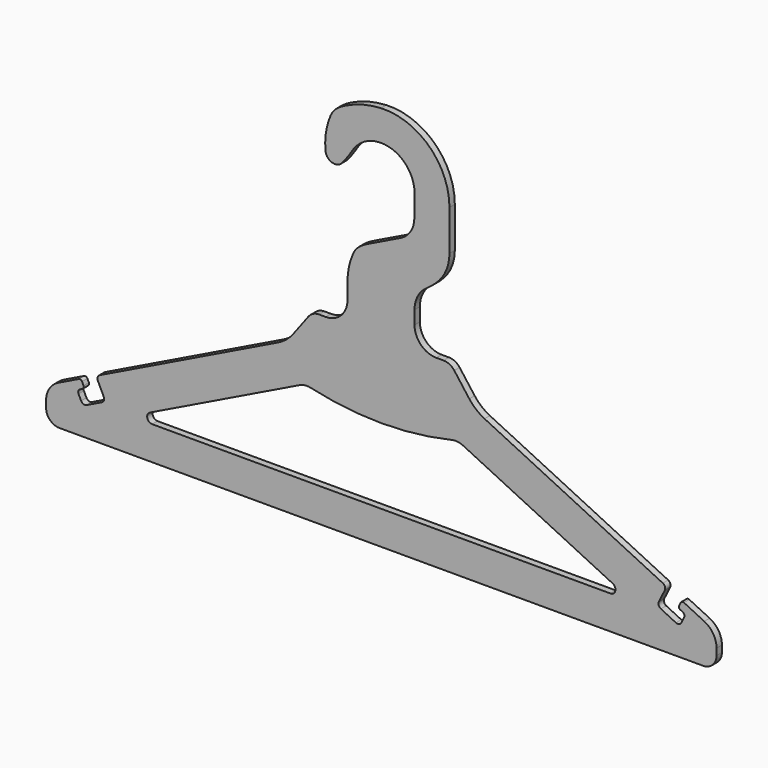
from build123d import *

# Parameters (mm, degrees)
F4_DEPTH = 4
F5_DEPTH = 25
F6_DEPTH = 4


with BuildPart() as f4:
    # F1 (on Front) → F4 (new body)
    with BuildSketch(Plane.XZ):
        with BuildLine():
            Line((-192, 0), (0, 0))
            Line((0, 0), (192, 0))
            ThreePointArc((192, 0), (197.656854, 2.343146), (200, 8))
            Line((200, 8), (200, 11.867938))
            ThreePointArc((200, 11.867938), (198.021286, 18.762229), (192.6875, 23.557777))
            Line((192.6875, 23.557777), (180.548051, 29.464027))
            ThreePointArc((180.548051, 29.464027), (179.402075, 29.533004), (178.542974, 28.77145))
            Line((178.542974, 28.77145), (177.667974, 26.973013))
            ThreePointArc((177.667974, 26.973013), (177.598997, 25.827036), (178.360551, 24.967935))
            Line((178.360551, 24.967935), (179.709379, 24.311685))
            ThreePointArc((179.709379, 24.311685), (180.724784, 23.166217), (180.632816, 21.638248))
            Line((180.632816, 21.638248), (179.101566, 18.490984))
            ThreePointArc((179.101566, 18.490984), (177.66973, 17.221727), (175.75977, 17.336688))
            Line((175.75977, 17.336688), (166.767586, 21.711688))
            ThreePointArc((166.767586, 21.711688), (165.498329, 23.143523), (165.61329, 25.053484))
            Line((165.61329, 25.053484), (169.11329, 32.247231))
            ThreePointArc((169.11329, 32.247231), (169.22825, 34.157192), (167.958994, 35.589027))
            Line((167.958994, 35.589027), (61.560664, 87.355393))
            ThreePointArc((61.560664, 87.355393), (56.583657, 90.555592), (52.498164, 94.835853))
            Line((52.498164, 94.835853), (43.525054, 106.8))
            ThreePointArc((43.525054, 106.8), (40.702763, 109.155418), (37.125054, 110))
            Line((37.125054, 110), (0, 110))
            Line((0, 110), (-37.125054, 110))
            ThreePointArc((-37.125054, 110), (-40.702763, 109.155418), (-43.525054, 106.8))
            Line((-43.525054, 106.8), (-52.498164, 94.835853))
            ThreePointArc((-52.498164, 94.835853), (-56.583657, 90.555592), (-61.560664, 87.355393))
            Line((-61.560664, 87.355393), (-167.958994, 35.589027))
            ThreePointArc((-167.958994, 35.589027), (-169.22825, 34.157192), (-169.11329, 32.247231))
            Line((-169.11329, 32.247231), (-165.61329, 25.053484))
            ThreePointArc((-165.61329, 25.053484), (-165.498329, 23.143523), (-166.767586, 21.711688))
            Line((-166.767586, 21.711688), (-175.75977, 17.336688))
            ThreePointArc((-175.75977, 17.336688), (-177.66973, 17.221727), (-179.101566, 18.490984))
            Line((-179.101566, 18.490984), (-180.632816, 21.638248))
            ThreePointArc((-180.632816, 21.638248), (-180.724784, 23.166217), (-179.709379, 24.311685))
            Line((-179.709379, 24.311685), (-178.360551, 24.967935))
            ThreePointArc((-178.360551, 24.967935), (-177.598997, 25.827036), (-177.667974, 26.973013))
            Line((-177.667974, 26.973013), (-178.542974, 28.77145))
            ThreePointArc((-178.542974, 28.77145), (-179.402075, 29.533004), (-180.548051, 29.464027))
            Line((-180.548051, 29.464027), (-192.6875, 23.557777))
            ThreePointArc((-192.6875, 23.557777), (-198.021286, 18.762229), (-200, 11.867938))
            Line((-200, 11.867938), (-200, 8))
            ThreePointArc((-200, 8), (-197.656854, 2.343146), (-192, 0))
        make_face()
    extrude(amount=F4_DEPTH)

    # F2 (on Front) → F5 (cut)
    with BuildSketch(Plane.XZ):
        with BuildLine():
            Line((-48.760248, 69.117535), (-138.003574, 25.697655))
            ThreePointArc((-138.003574, 25.697655), (-139.614511, 22.326563), (-136.691074, 20))
            Line((-136.691074, 20), (0, 20))
            Line((0, 20), (136.691074, 20))
            ThreePointArc((136.691074, 20), (139.614511, 22.326563), (138.003574, 25.697655))
            Line((138.003574, 25.697655), (48.760248, 69.117535))
            ThreePointArc((48.760248, 69.117535), (45.497375, 70.063317), (42.106154, 69.862174))
            ThreePointArc((42.106154, 69.862174), (21.192976, 66.219569), (0, 65))
            ThreePointArc((0, 65), (-21.192976, 66.219569), (-42.106154, 69.862174))
            ThreePointArc((-42.106154, 69.862174), (-45.497375, 70.063317), (-48.760248, 69.117535))
        make_face()
    extrude(amount=F5_DEPTH, mode=Mode.SUBTRACT)

    # F3 (on Front) → F6 (join)
    with BuildSketch(Plane.XZ):
        with BuildLine():
            ThreePointArc((32.807421, 110), (23.615033, 113.807612), (19.807421, 123))
            Line((19.807421, 123), (19.807421, 131))
            ThreePointArc((19.807421, 131), (21.789998, 138.891463), (27.266909, 144.908874))
            ThreePointArc((27.266909, 144.908874), (31.010618, 147.749106), (34.369203, 151.035771))
            ThreePointArc((34.369203, 151.035771), (39.024484, 158.627298), (40.648222, 167.383233))
            Line((40.648222, 167.383233), (40.648222, 191.518757))
            ThreePointArc((40.648222, 191.518757), (28.5597, 219.702824), (-0.19253, 230.369747))
            ThreePointArc((-0.19253, 230.369747), (-10.806946, 228.758492), (-20.884333, 225.056026))
            ThreePointArc((-20.884333, 225.056026), (-23.281736, 223.789035), (-25.589338, 222.365034))
            ThreePointArc((-25.589338, 222.365034), (-28.274915, 219.966), (-30.175497, 216.907327))
            ThreePointArc((-30.175497, 216.907327), (-33.010051, 207.223067), (-33.292141, 197.136441))
            ThreePointArc((-33.292141, 197.136441), (-29.36617, 192.336543), (-23.415442, 194.080419))
            ThreePointArc((-23.415442, 194.080419), (-20.197771, 198.205206), (-17.303473, 202.562993))
            ThreePointArc((-17.303473, 202.562993), (5.233861, 211.415378), (19.855876, 192.115305))
            Line((19.855876, 192.115305), (19.688146, 178.864043))
            ThreePointArc((19.688146, 178.864043), (17.438414, 171.2971), (11.551299, 166.037652))
            Line((11.551299, 166.037652), (-7.491809, 156.772539))
            ThreePointArc((-7.491809, 156.772539), (-9.889212, 155.505548), (-12.196814, 154.081547))
            ThreePointArc((-12.196814, 154.081547), (-14.846888, 151.724576), (-16.738336, 148.724473))
            ThreePointArc((-16.738336, 148.724473), (-19.325033, 140.813993), (-20.192579, 132.536671))
            Line((-20.192579, 132.536671), (-20.192579, 123))
            ThreePointArc((-20.192579, 123), (-24.000191, 113.807612), (-33.192579, 110))
            Line((-33.192579, 110), (32.807421, 110))
        make_face()
    extrude(amount=F6_DEPTH)


solid = f4.part
